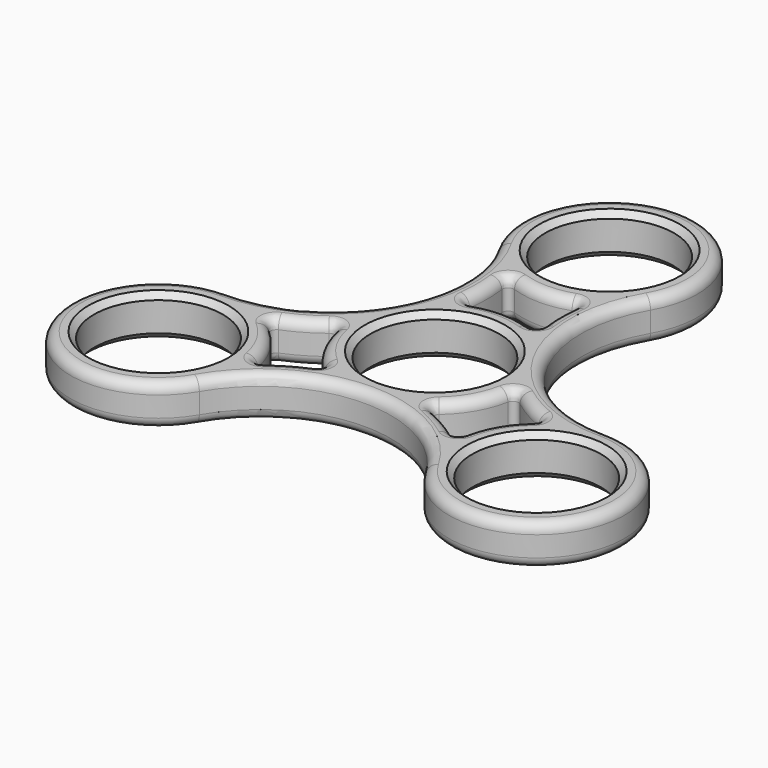
from build123d import *

# Parameters (mm, degrees)
F0_R     = 11.05
F1_DEPTH = 7
F2_R     = 1
F3_R     = 1.75
F4_SIZE  = 1


with BuildPart() as f1:
    # F0 (on Top) → F1 (new body)
    with BuildSketch(Plane.XY):
        with BuildLine():
            ThreePointArc((-19.398969, -26.25), (0, -15.05), (19.398969, -26.25))
            ThreePointArc((19.398969, -26.25), (45.466334, -26.25), (32.432651, -3.675))
            ThreePointArc((32.432651, -3.675), (13.033682, 7.525), (13.033682, 29.925))
            ThreePointArc((13.033682, 29.925), (0, 52.5), (-13.033682, 29.925))
            ThreePointArc((-13.033682, 29.925), (-13.033682, 7.525), (-32.432651, -3.675))
            ThreePointArc((-32.432651, -3.675), (-45.466334, -26.25), (-19.398969, -26.25))
        make_face()
        with Locations((-32.432651, -18.725)):
            Circle(F0_R, mode=Mode.SUBTRACT)
        with BuildLine():
            ThreePointArc((-17.423552, -17.616195), (-19.398969, -11.2), (-23.967849, -6.281142))
            ThreePointArc((-23.967849, -6.281142), (-19.232651, -4.138071), (-15.009099, -1.108805))
            ThreePointArc((-15.009099, -1.108805), (-13.033682, -7.525), (-8.464803, -12.443858))
            ThreePointArc((-8.464803, -12.443858), (-13.2, -14.586929), (-17.423552, -17.616195))
        make_face(mode=Mode.SUBTRACT)
        with Locations((32.432651, -18.725)):
            Circle(F0_R, mode=Mode.SUBTRACT)
        with BuildLine():
            ThreePointArc((23.967849, -6.281142), (19.398969, -11.2), (17.423552, -17.616195))
            ThreePointArc((17.423552, -17.616195), (13.2, -14.586929), (8.464803, -12.443858))
            ThreePointArc((8.464803, -12.443858), (13.033682, -7.525), (15.009099, -1.108805))
            ThreePointArc((15.009099, -1.108805), (19.232651, -4.138071), (23.967849, -6.281142))
        make_face(mode=Mode.SUBTRACT)
        Circle(F0_R, mode=Mode.SUBTRACT)
        with BuildLine():
            ThreePointArc((6.544296, 23.897337), (6.032651, 18.725), (6.544296, 13.552663))
            ThreePointArc((6.544296, 13.552663), (0, 15.05), (-6.544296, 13.552663))
            ThreePointArc((-6.544296, 13.552663), (-6.032651, 18.725), (-6.544296, 23.897337))
            ThreePointArc((-6.544296, 23.897337), (0, 22.4), (6.544296, 23.897337))
        make_face(mode=Mode.SUBTRACT)
        with Locations((0, 37.45)):
            Circle(F0_R, mode=Mode.SUBTRACT)
    extrude(amount=F1_DEPTH)

    # F2
    f2_edges = [f1.edges().sort_by_distance(p)[0] for p in [
        (-6.544296, 23.897337, 3.5),
        (-6.544296, 13.552663, 3.5),
        (6.544296, 13.552663, 3.5),
        (6.544296, 23.897337, 3.5),
        (-23.967849, -6.281142, 3.5),
        (-17.423552, -17.616195, 3.5),
        (-8.464803, -12.443858, 3.5),
        (-15.009099, -1.108805, 3.5),
        (23.967849, -6.281142, 3.5),
        (17.423552, -17.616195, 3.5),
        (8.464803, -12.443858, 3.5),
        (15.009099, -1.108805, 3.5),
    ]]
    fillet(f2_edges, radius=F2_R)

    # F3
    f3_edges = [f1.edges().sort_by_distance(p)[0] for p in [
        (-13.033682, 7.525, 7),
        (13.033682, 7.525, 0),
        (6.032651, 18.725, 7),
        (19.232651, -4.138071, 7),
        (-19.232651, -4.138071, 7),
        (-13.033682, -7.525, 0),
        (0, 15.05, 0),
        (19.232651, -4.138071, 0),
    ]]
    fillet(f3_edges, radius=F3_R)

    # F4
    f4_edges = [f1.edges().sort_by_distance(p)[0] for p in [
        (11.05, 0, 3.5),
        (-11.05, 0, 0),
        (-11.05, 0, 7),
        (11.05, 37.45, 3.5),
        (-11.05, 37.45, 0),
        (-11.05, 37.45, 7),
        (43.482651, -18.725, 3.5),
        (21.382651, -18.725, 0),
        (21.382651, -18.725, 7),
        (-21.382651, -18.725, 3.5),
        (-43.482651, -18.725, 0),
        (-43.482651, -18.725, 7),
    ]]
    chamfer(f4_edges, length=F4_SIZE)


solid = f1.part
